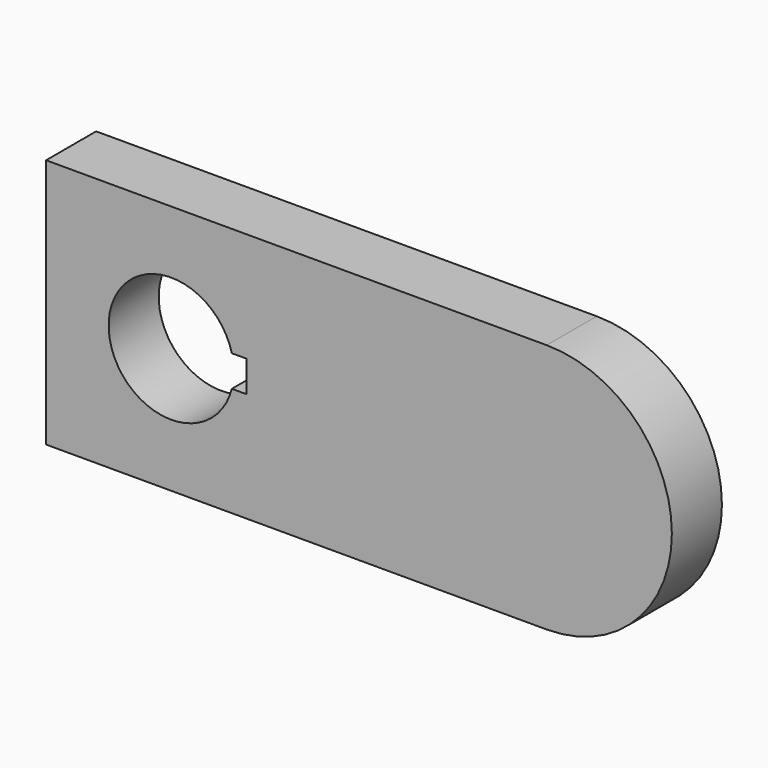
from build123d import *

# Parameters (mm, degrees)
F1_DEPTH = 10


with BuildPart() as f1:
    # F0 (on Front) → F1 (new body)
    with BuildSketch(Plane.XZ):
        with BuildLine():
            Line((0, 40), (-80, 40))
            Line((-80, 40), (-80, 0))
            Line((-80, 0), (0, 0))
            ThreePointArc((0, 0), (20, 20), (0, 40))
        make_face()
        with BuildLine():
            ThreePointArc((-50.317542, 17.5), (-70, 20), (-50.317542, 22.5))
            Line((-50.317542, 22.5), (-48, 22.5))
            Line((-48, 22.5), (-48, 20))
            Line((-48, 20), (-48, 17.5))
            Line((-48, 17.5), (-50.317542, 17.5))
        make_face(mode=Mode.SUBTRACT)
    extrude(amount=F1_DEPTH)


solid = f1.part
